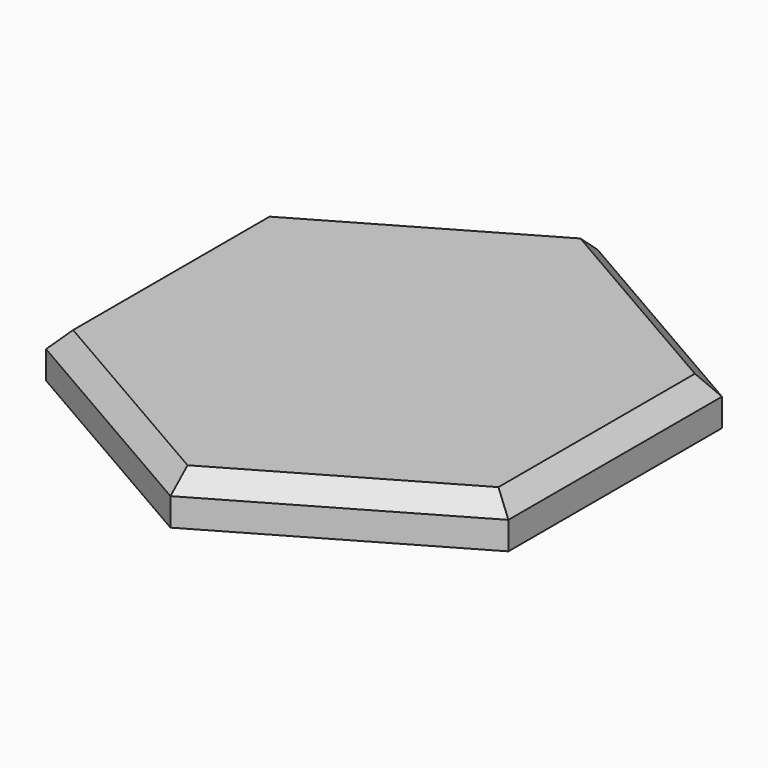
from build123d import *

# Parameters (mm, degrees)
F1_DEPTH = 1
F2_SIZE  = 0.4


with BuildPart() as f1:
    # F0 (on Top) → F1 (new body)
    with BuildSketch(Plane.XY):
        Polygon((5, -2.886751), (5, 2.886751), (0, 5.773503), (-5, 2.886751), (-5, -2.886751), (0, -5.773503), align=None)
    extrude(amount=F1_DEPTH)

    # F2
    f2_edges = [f1.edges().sort_by_distance(p)[0] for p in [
        (-2.5, -4.330127, 1),
        (-5, 0, 1),
        (-2.5, 4.330127, 1),
        (2.5, 4.330127, 1),
        (5, 0, 1),
        (2.5, -4.330127, 1),
    ]]
    chamfer(f2_edges, length=F2_SIZE)


solid = f1.part
